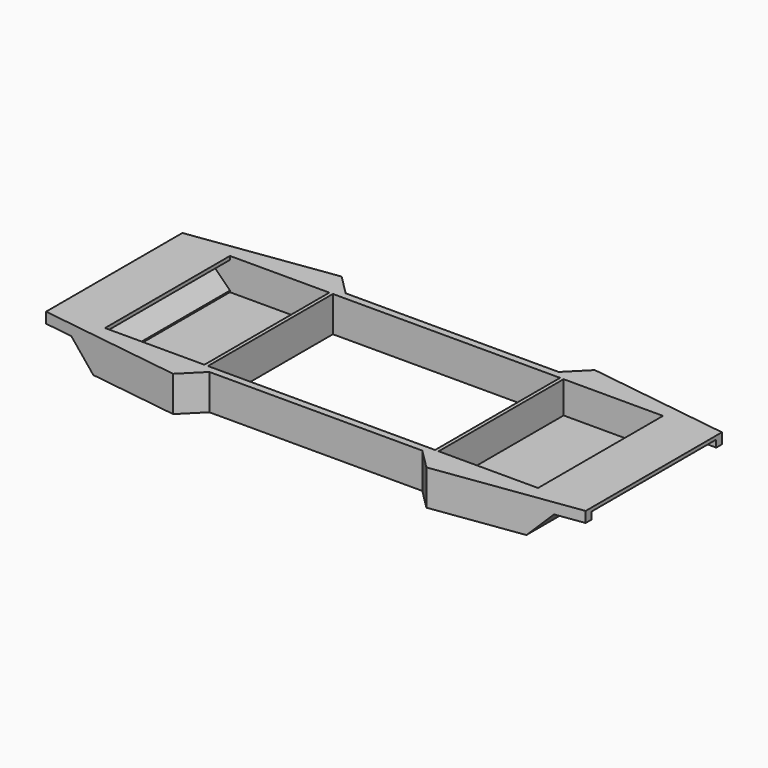
from build123d import *

# Parameters (mm, degrees)
F1_DEPTH  = 50
F3_W      = 220
F3_H      = 40
F4_DEPTH  = 760
F5_DEPTH  = 240
F6_W      = 319.9999928474
F6_H      = 220
F6_W_2    = 280
F6_H_2    = 180
F7_DEPTH  = 50
F8_DEPTH  = 435.9292732552
F9_W      = 140
F9_H      = 220
F10_DEPTH = 10
F12_DEPTH = 240
F13_DEPTH = 25
F14_DEPTH = 25
F16_W     = 220
F16_H     = 40
F17_DEPTH = 5
F15_W     = 220
F15_H     = 40
F18_DEPTH = 5


with BuildPart() as f1:
    # F0 (on Top) → F1 (new body)
    with BuildSketch(Plane.XY):
        Polygon((-178.3412894642, 148.3412835037), (-380, 120), (-380, -120), (-178.3412894642, -148.3412835037), (-150.0000059605, -120), (150.0000059605, -120), (178.3412894642, -148.3412835037), (380, -120), (380, 120), (178.3412894642, 148.3412835037), (150.0000059605, 120), (-150.0000059605, 120), align=None)
    extrude(amount=F1_DEPTH)

    # F3 (on face) → F4 (cut)
    with BuildSketch(Plane(origin=(-380, 0, 0), x_dir=(0, -1, 0), z_dir=(-1, 0, 0))):
        with Locations((0, 25)):
            Rectangle(F3_W, F3_H)
    extrude(amount=-F4_DEPTH, mode=Mode.SUBTRACT)

    # F2 (on face) → F5 (cut)
    with BuildSketch(Plane.XZ.offset(120)):
        Polygon((305, 0), (380, 0), (380, 35), (340, 35), align=None)
        Polygon((-340, 35), (-380, 35), (-380, 0), (-305, 0), align=None)
    extrude(amount=-F5_DEPTH, mode=Mode.SUBTRACT)

    # F6 (on face) → F7 (cut)
    with BuildSketch(Plane.XY.offset(50)):
        Rectangle(F6_W, F6_H)
        Rectangle(F6_W_2, F6_H_2, mode=Mode.SUBTRACT)
    extrude(amount=-F7_DEPTH, mode=Mode.SUBTRACT)

    # F2 (on face) → F8 (cut, symmetric)
    with BuildSketch(Plane.XZ.offset(120)):
        Polygon((-340, 35), (-380, 35), (-380, 0), (-305, 0), align=None)
        Polygon((305, 0), (380, 0), (380, 35), (340, 35), align=None)
    extrude(amount=F8_DEPTH, both=True, mode=Mode.SUBTRACT)

    # F9 (on face) → F10 (cut)
    with BuildSketch(Plane.XY.offset(50)):
        with Locations((-234.9999964237, 0)):
            Rectangle(F9_W, F9_H)
        with Locations((234.9999964237, 0)):
            Rectangle(F9_W, F9_H)
    extrude(amount=-F10_DEPTH, mode=Mode.SUBTRACT)

    # F11 (on face) → F12 (join)
    with BuildSketch(Plane.XZ.offset(120)):
        Polygon((-305.0000059605, 0), (-305.0000059605, 7.0710678119), (-332.9289381486, 35), (-340.0000059605, 35), align=None)
        Polygon((340.0000059605, 35), (332.9289381486, 35), (305.0000059605, 7.0710678119), (305.0000059605, 0), align=None)
    extrude(amount=-F12_DEPTH)

    # F13 (cut): a face of the model
    f13_faces = [f1.faces().sort_by_distance(p)[0] for p in [
        (0, 0, 50),
    ]]
    extrude(f13_faces, amount=-F13_DEPTH, mode=Mode.SUBTRACT)

    # F14 (cut): a face of the model
    f14_faces = [f1.faces().sort_by_distance(p)[0] for p in [
        (0, 0, 0),
    ]]
    extrude(f14_faces, amount=-F14_DEPTH, mode=Mode.SUBTRACT)

    # F16 (on face) → F17 (join)
    with BuildSketch(Plane.YZ.offset(-159.9999964237)):
        with Locations((0, 25)):
            Rectangle(F16_W, F16_H)
    extrude(amount=-F17_DEPTH)

    # F15 (on face) → F18 (join)
    with BuildSketch(Plane(origin=(159.9999964237, 0, 0), x_dir=(0, -1, 0), z_dir=(-1, 0, 0))):
        with Locations((0, 25)):
            Rectangle(F15_W, F15_H)
    extrude(amount=-F18_DEPTH)


solid = f1.part
